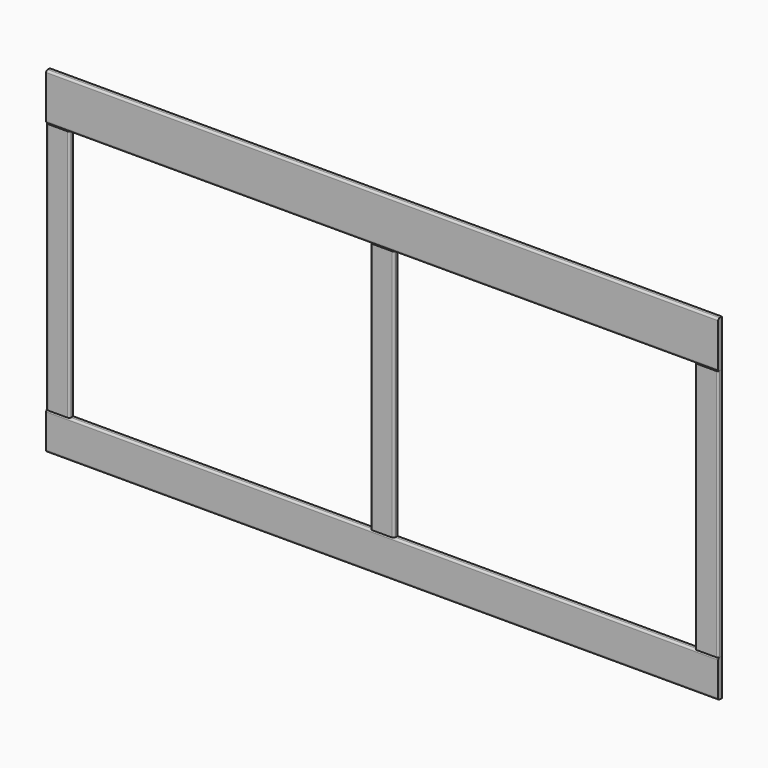
from build123d import *

# Parameters (mm, degrees)
F1_DEPTH = 12.7
F0_W     = 63.5
F0_H     = 685.8
F2_DEPTH = 12.7
F3_R     = 5.08
F3_2_R   = 5.08


with BuildPart() as f1:
    # F0 (on Front) → F1 (new body)
    with BuildSketch(Plane.XZ):
        Polygon((-914.4, 457.2), (-914.4, 330.2), (-850.9, 330.2), (-31.75, 330.2), (0, 330.2), (0, 457.2), align=None)
        Polygon((850.9, 330.2), (914.4, 330.2), (914.4, 457.2), (0, 457.2), (0, 330.2), (31.75, 330.2), align=None)
        Polygon((-914.4, -457.2), (914.4, -457.2), (914.4, -355.6), (850.9, -355.6), (31.75, -355.6), (-31.75, -355.6), (-850.9, -355.6), (-914.4, -355.6), align=None)
    extrude(amount=F1_DEPTH)

    # F3
    f3_edges = [f1.edges().sort_by_distance(p)[0] for p in [
        (0, -12.7, 457.2),
        (0, -12.7, 330.2),
        (0, -12.7, -355.6),
        (0, -12.7, -457.2),
    ]]
    fillet(f3_edges, radius=F3_R)


with BuildPart() as f2:
    # F0 (on Front) → F2 (new body)
    with BuildSketch(Plane.XZ):
        with Locations((-882.65, -12.7)):
            Rectangle(F0_W, F0_H)
        Polygon((-31.75, -355.6), (31.75, -355.6), (31.75, 330.2), (0, 330.2), (-31.75, 330.2), align=None)
        with Locations((882.65, -12.7)):
            Rectangle(F0_W, F0_H)
    extrude(amount=F2_DEPTH)

    # F3#2
    f3_2_edges = [f2.edges().sort_by_distance(p)[0] for p in [
        (914.4, -12.7, -12.7),
        (850.9, -12.7, -12.7),
        (-850.9, -12.7, -12.7),
        (-914.4, -12.7, -12.7),
        (-31.75, -12.7, -12.7),
        (31.75, -12.7, -12.7),
    ]]
    fillet(f3_2_edges, radius=F3_2_R)


solid = Compound([f1.part, f2.part])
